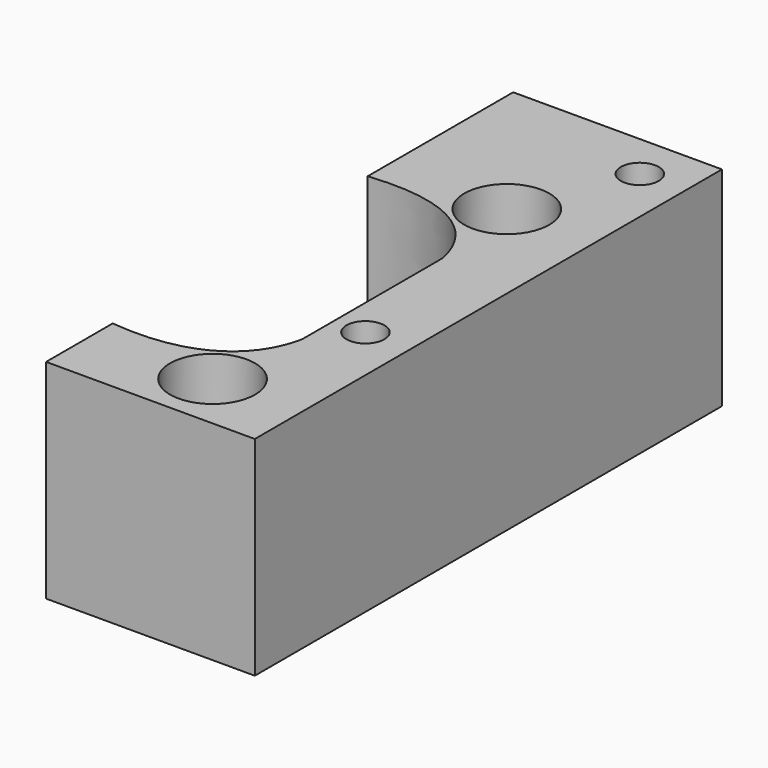
from build123d import *

# Parameters (mm, degrees)
F0_R     = 3.695
F0_R_2   = 1.65
F0_R_3   = 2.1844
F1_DEPTH = 7.2898
F2_DEPTH = 18.1356


with BuildPart() as f1:
    # F0 (on Top) → F1 (new body)
    with BuildSketch(Plane.XY):
        with BuildLine():
            Line((0, 7.239), (0, 0))
            Line((0, 0), (18.161, 0))
            Line((18.161, 0), (18.161, 50.8))
            Line((18.161, 50.8), (0, 50.8))
            Line((0, 50.8), (0, 34.9758))
            add(Edge.make_bspline(
                [(0, 34.9758), (7.669259, 35.748325), (10.794075, 32.376815), (11.5062, 28.7274)],
                knots=[0, 0, 0, 0, 13.093324, 13.093324, 13.093324, 13.093324], degree=3))
            Line((11.5062, 28.7274), (11.5062, 21.1074))
            Line((11.5062, 21.1074), (11.5062, 13.4874))
            add(Edge.make_bspline(
                [(0, 7.239), (7.669259, 6.466475), (10.794075, 9.837985), (11.5062, 13.4874)],
                knots=[0, 0, 0, 0, 13.093324, 13.093324, 13.093324, 13.093324], degree=3))
        make_face()
        with Locations((10.4006, 5.1054)):
            Circle(F0_R, mode=Mode.SUBTRACT)
        with Locations((14.225, 16.95)):
            Circle(F0_R_2, mode=Mode.SUBTRACT)
        with Locations((10.4006, 37.1054)):
            Circle(F0_R, mode=Mode.SUBTRACT)
        with Locations((14.225, 46.79)):
            Circle(F0_R_2, mode=Mode.SUBTRACT)
        with Locations((10.4006, 37.1054)):
            Circle(F0_R)
        with Locations((10.4006, 37.1054)):
            Circle(F0_R_3, mode=Mode.SUBTRACT)
        with Locations((10.4006, 5.1054)):
            Circle(F0_R)
        with Locations((10.4006, 5.1054)):
            Circle(F0_R_3, mode=Mode.SUBTRACT)
    extrude(amount=F1_DEPTH)

    # F0 (on Top) → F2 (join)
    with BuildSketch(Plane.XY):
        with BuildLine():
            Line((0, 7.239), (0, 0))
            Line((0, 0), (18.161, 0))
            Line((18.161, 0), (18.161, 50.8))
            Line((18.161, 50.8), (0, 50.8))
            Line((0, 50.8), (0, 34.9758))
            add(Edge.make_bspline(
                [(0, 34.9758), (7.669259, 35.748325), (10.794075, 32.376815), (11.5062, 28.7274)],
                knots=[0, 0, 0, 0, 13.093324, 13.093324, 13.093324, 13.093324], degree=3))
            Line((11.5062, 28.7274), (11.5062, 21.1074))
            Line((11.5062, 21.1074), (11.5062, 13.4874))
            add(Edge.make_bspline(
                [(0, 7.239), (7.669259, 6.466475), (10.794075, 9.837985), (11.5062, 13.4874)],
                knots=[0, 0, 0, 0, 13.093324, 13.093324, 13.093324, 13.093324], degree=3))
        make_face()
        with Locations((10.4006, 5.1054)):
            Circle(F0_R, mode=Mode.SUBTRACT)
        with Locations((14.225, 16.95)):
            Circle(F0_R_2, mode=Mode.SUBTRACT)
        with Locations((10.4006, 37.1054)):
            Circle(F0_R, mode=Mode.SUBTRACT)
        with Locations((14.225, 46.79)):
            Circle(F0_R_2, mode=Mode.SUBTRACT)
    extrude(amount=F2_DEPTH)


solid = f1.part
